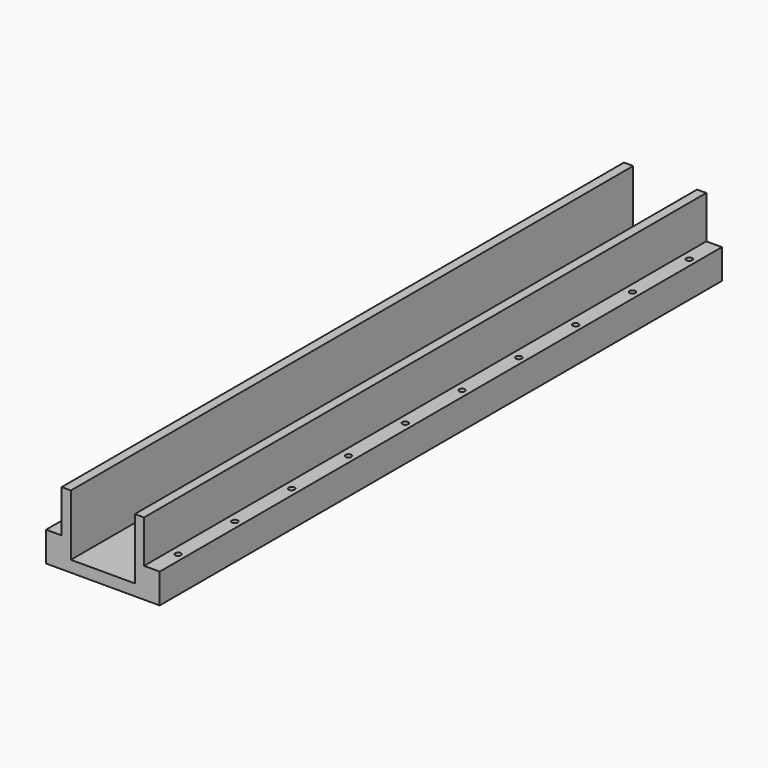
from build123d import *

# Parameters (mm, degrees)
F0_W     = 6.5
F0_H     = 30
F1_DEPTH = 495
F3_D     = 4.1


with BuildPart() as f1:
    # F0 (on Front) → F1 (new body)
    with BuildSketch(Plane.XZ):
        with Locations((14.25, 36)):
            Rectangle(F0_W, F0_H)
        with Locations((65.75, 36)):
            Rectangle(F0_W, F0_H)
        Polygon((0, 21), (0, 0), (80, 0), (80, 21), (69, 21), (62.5, 21), (62.5, 8), (17.5, 8), (17.5, 21), (11, 21), align=None)
    extrude(amount=F1_DEPTH)

    # F3 (through all)
    with Locations(Plane.XY.offset(21)):
        with Locations((75, -22.5), (75, -72.5), (75, -122.5), (75, -172.5), (75, -222.5), (75, -272.5), (75, -322.5), (75, -372.5), (75, -422.5), (75, -472.5), (5, -22.5), (5, -72.5), (5, -122.5), (5, -172.5), (5, -222.5), (5, -272.5), (5, -322.5), (5, -372.5), (5, -422.5), (5, -472.5)):
            Hole(F3_D / 2)


solid = f1.part
